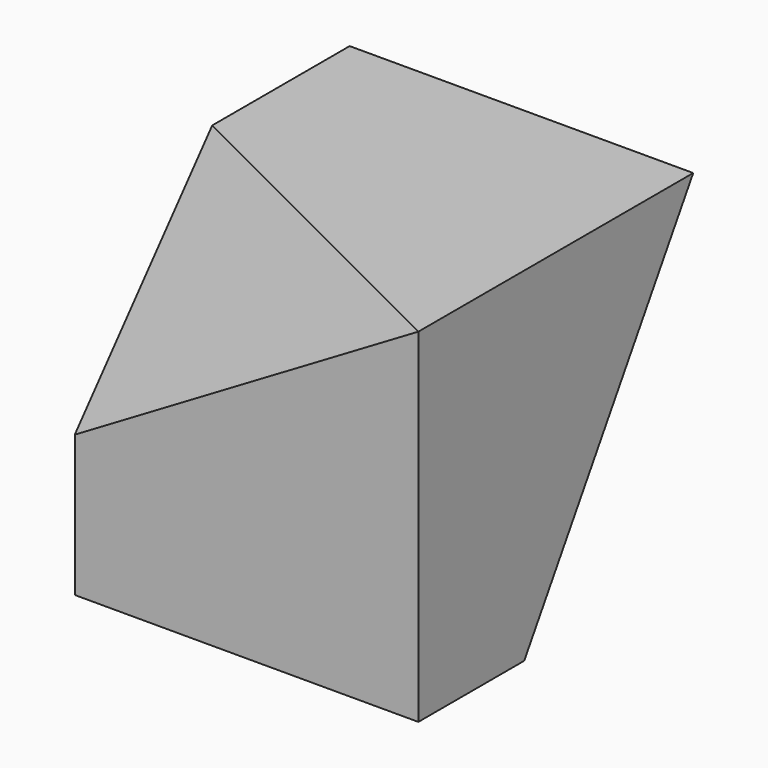
from build123d import *

# Parameters (mm, degrees)
F0_W      = 25.4
F0_H      = 25.4
F1_DEPTH  = 25.4
F5_W      = 87.4159298837
F5_H      = 133.6338296533
F6_DEPTH  = 25.4
F9_W      = 100.1058854163
F9_H      = 223.7386330962
F10_DEPTH = 25.4


with BuildPart() as f1:
    # F0 (on Top) → F1 (new body)
    with BuildSketch(Plane.XY):
        Rectangle(F0_W, F0_H)
    extrude(amount=F1_DEPTH)

    # F5 (on 3pt) → F6 (cut)
    with BuildSketch(Plane(origin=(-7.0819495099, -14.1638990198, 12.0212404911), x_dir=(-0.9344077554, 0.2715776833, -0.2304944873), z_dir=(0.3562052031, 0.7124104062, -0.6046397824))):
        with Locations((19.7420697659, 46.980433166)):
            Rectangle(F5_W, F5_H)
    extrude(amount=-F6_DEPTH, mode=Mode.SUBTRACT)

    # F9 (on 3pt) → F10 (cut)
    with BuildSketch(Plane(origin=(3.6094875517, 3.9343350679, -2.4191651376), x_dir=(-0.7879237292, 0.5245449158, -0.3225350031), z_dir=(0.6157728453, 0.6711913157, -0.4127057314))):
        with Locations((-17.2750819474, 77.5100886822)):
            Rectangle(F9_W, F9_H)
    extrude(amount=F10_DEPTH, mode=Mode.SUBTRACT)


solid = f1.part
